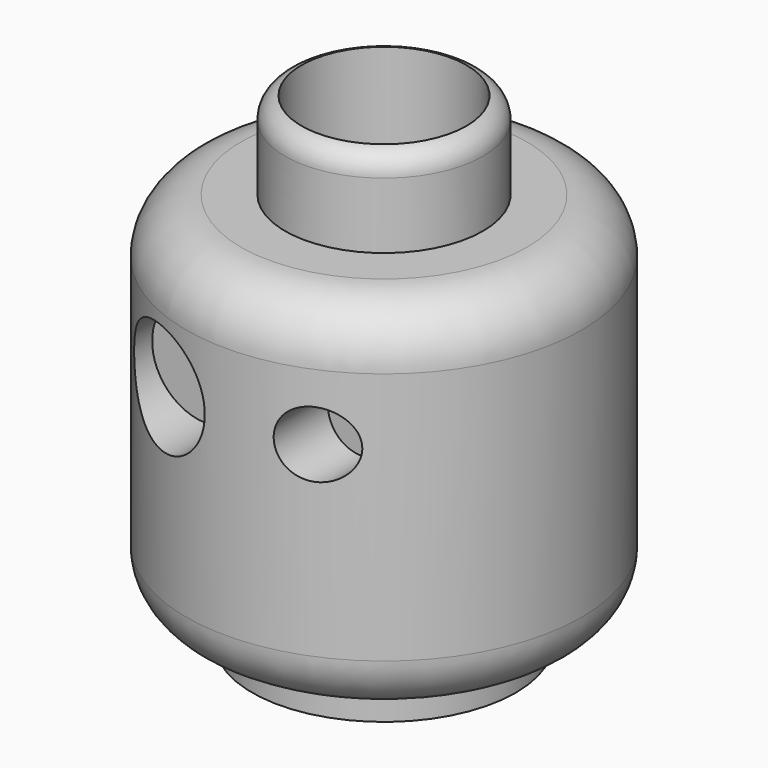
from build123d import *

# Parameters (mm, degrees)
F2_R     = 7.5
F3_DEPTH = 44
F5_START = 11.37151
F4_R     = 3
F4_R_2   = 5
F5_DEPTH = 8.99461


with BuildPart() as f1:
    # F0 (on Front) → F1 (revolve)
    with BuildSketch(Plane.XZ):
        with BuildLine():
            Line((7, 44), (0, 44))
            Line((0, 44), (0, 0))
            Line((0, 0), (12, 0))
            Line((12, 0), (12, 3))
            Line((12, 3), (13, 3))
            ThreePointArc((13, 3), (16.5355339059, 4.4644660941), (18, 8))
            Line((18, 8), (18, 31))
            ThreePointArc((18, 31), (16.5355339059, 34.5355339059), (13, 36))
            Line((13, 36), (9, 36))
            Line((9, 36), (9, 42))
            ThreePointArc((9, 42), (8.4142135624, 43.4142135624), (7, 44))
        make_face()
    revolve(axis=Axis((0, 0, 22), (0, 0, 1)))

    # F2 (on face) → F3 (cut, through all)
    with BuildSketch(Plane(origin=(0, 0, 0), x_dir=(1, 0, 0), z_dir=(0, 0, -1))):
        Circle(F2_R)
    extrude(amount=-F3_DEPTH, mode=Mode.SUBTRACT)

    # F4 (on Front) → F5 (cut)
    with BuildSketch(Plane.XZ.offset(F5_START)):
        with Locations((7, 25)):
            Circle(F4_R)
        with Locations((-7, 25)):
            Circle(F4_R_2)
    extrude(amount=F5_DEPTH, mode=Mode.SUBTRACT)


solid = f1.part
